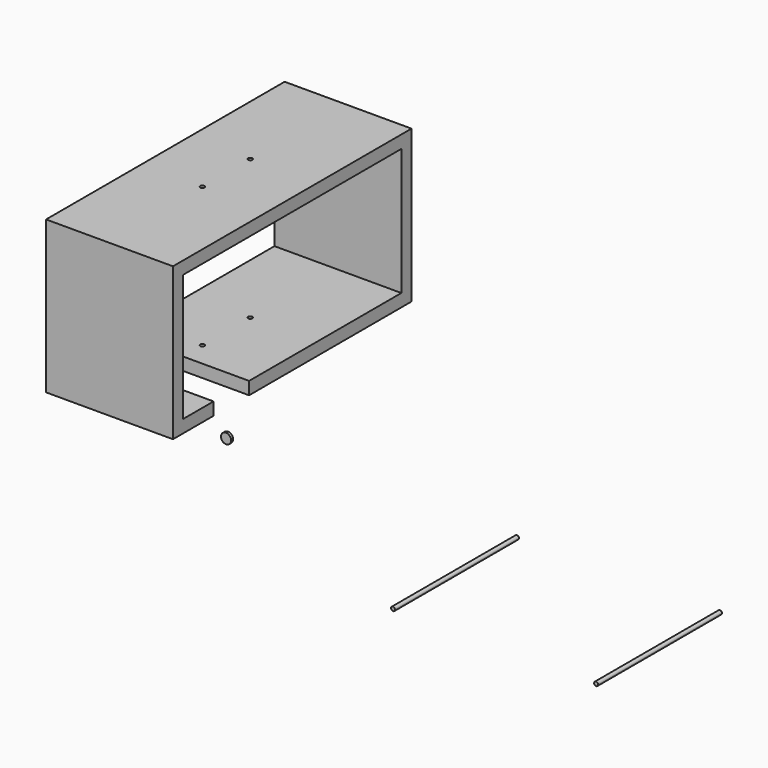
from build123d import *

# Parameters (mm, degrees)
F1_DEPTH  = 6.35
F2_W      = 63.5
F2_H      = 6.35
F3_DEPTH  = 31.75
F5_W      = 38.1
F5_H      = 22.225
F6_DEPTH  = 6.35
F8_DEPTH  = 508
F9_R      = 2.54
F10_DEPTH = 1.27
F14_R     = 1.0033
F15_DEPTH = 77.47
F7_R      = 1.0795
F17_DEPTH = 508


with BuildPart() as f1:
    # F0 (on Top) → F1 (new body)
    with BuildSketch(Plane.XY):
        Polygon((32.518101, 92.032477), (-30.981899, 92.032477), (-30.981899, -57.192523), (32.518101, -57.192523), (32.518101, -31.792523), (-5.581899, -31.792523), (-5.581899, -9.567523), (32.518101, -9.567523), align=None)
    extrude(amount=F1_DEPTH)

    # F2 (on face) → F3 (join)
    with BuildSketch(Plane.XY.offset(6.35)):
        with Locations((0.768101, 88.857477)):
            Rectangle(F2_W, F2_H)
        with Locations((0.768101, -54.017523)):
            Rectangle(F2_W, F2_H)
    extrude(amount=F3_DEPTH)

    # F4: F1 across face


with BuildPart() as f1_1:
    add(f1.part)
    add(f1.part.mirror(Plane(origin=(0.768101, -54.017523, 38.1), x_dir=(1, 0, 0), z_dir=(0, 0, 1))))

    # F5 (on face) → F6 (join)
    with BuildSketch(Plane.XY.offset(76.2)):
        with Locations((13.468101, -20.680023)):
            Rectangle(F5_W, F5_H)
    extrude(amount=-F6_DEPTH)

    # F7 (on face) → F8 (cut)
    with BuildSketch(Plane(origin=(0, 0, 0), x_dir=(1, 0, 0), z_dir=(0, 0, -1))):
        with BuildLine():
            ThreePointArc((0.501401, -2.548277), (0.185223, -1.784956), (-0.578099, -1.468777))
            Line((-0.578099, -1.468777), (-0.578099, -2.548277))
            Line((-0.578099, -2.548277), (-1.657599, -2.548277))
            ThreePointArc((-1.657599, -2.548277), (-0.578099, -3.627777), (0.501401, -2.548277))
        make_face()
        with BuildLine():
            Line((-0.578099, -2.548277), (-0.578099, -1.468777))
            ThreePointArc((-0.578099, -1.468777), (-1.34142, -1.784956), (-1.657599, -2.548277))
            Line((-1.657599, -2.548277), (-0.578099, -2.548277))
        make_face()
    extrude(amount=-F8_DEPTH, mode=Mode.SUBTRACT)

    # F7 (on face) → F17 (cut)
    with BuildSketch(Plane(origin=(0, 0, 0), x_dir=(1, 0, 0), z_dir=(0, 0, -1))):
        with Locations((-0.578099, -32.545677)):
            Circle(F7_R)
    extrude(amount=-F17_DEPTH, mode=Mode.SUBTRACT)


with BuildPart() as f10:
    # F9 (on Front) → F10 (new body)
    with BuildSketch(Plane.XZ):
        with Locations((-61.869353, -28.31375)):
            Circle(F9_R)
    extrude(amount=F10_DEPTH)


with BuildPart() as f11_1:
    # F11: copy of F10
    add(f10.part.moved(Location((76.2, 0, 0))))


with BuildPart() as f12_1:
    # F12: copy of F10
    add(f10.part.moved(Location((25.4, 0, 0))))


with BuildPart() as f13_1:
    # F13: copy of F10
    add(f10.part.moved(Location((50.8, 0, 0))))


with BuildPart() as f15:
    # F14 (on Front) → F15 (new body)
    with BuildSketch(Plane.XZ):
        with Locations((158.896416, -25.392648)):
            Circle(F14_R)
    extrude(amount=F15_DEPTH)


with BuildPart() as f16_1:
    # F16: copy of F15
    add(f15.part.moved(Location((101.6, 0, 0))))


solid = Compound([f1_1.part, f10.part, f11_1.part, f12_1.part, f13_1.part, f15.part, f16_1.part])
